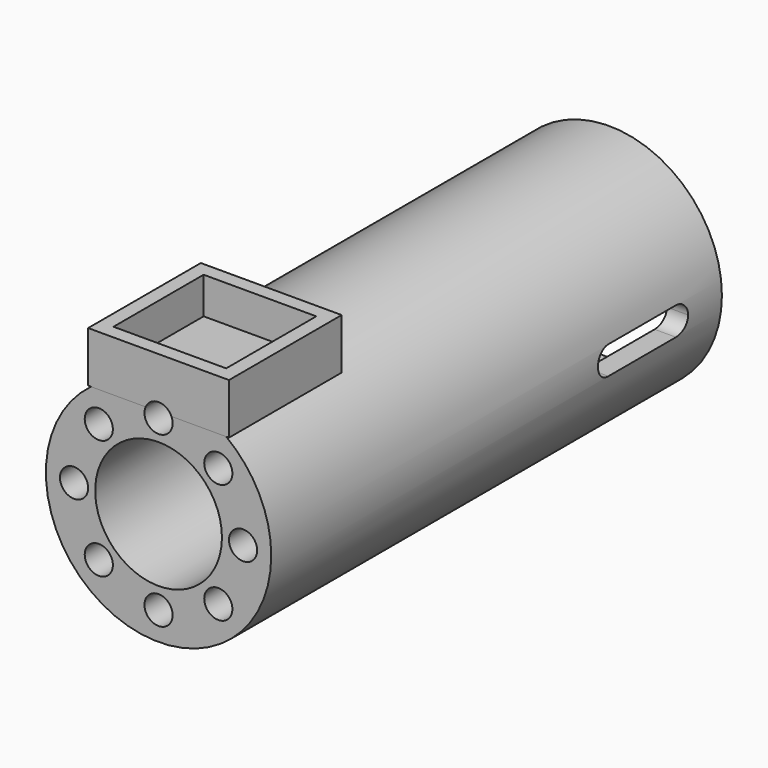
from build123d import *

# Parameters (mm, degrees)
F0_R           = 40
F1_DEPTH       = 200
F2_W           = 50
F2_H           = 50
F3_DEPTH       = 25
F4_DEPTH       = 18
F5_T           = -5
F7_D           = 45
F7_CBORE_D     = 65
F7_CBORE_DEPTH = 80
F9_D           = 10
F9_DEPTH       = 10
F9_TIP         = 3.0043030951
F9_2_D         = 10
F9_2_DEPTH     = 10
F9_2_TIP       = 3.0043030951
F12_DEPTH      = 50


with BuildPart() as f1:
    # F0 (on Front) → F1 (new body)
    with BuildSketch(Plane.XZ):
        with Locations((0, -32)):
            Circle(F0_R)
    extrude(amount=-F1_DEPTH)

    # F2 (on Top) → F3 (cut)
    with BuildSketch(Plane.XY):
        with Locations((0, 25)):
            Rectangle(F2_W, F2_H)
    extrude(amount=F3_DEPTH, mode=Mode.SUBTRACT)

    # F7 (through all)
    with Locations(Plane(origin=(0, 200, 0), x_dir=(-1, 0, 0), z_dir=(0, 1, 0))):
        with Locations((0, -32)):
            CounterBoreHole(F7_D / 2, F7_CBORE_D / 2, F7_CBORE_DEPTH)

    # F9
    with Locations(Plane.XZ):
        with Locations((21.2132034356, -10.7867965644), (30, -32), (21.2132034356, -53.2132034356), (0, -62), (-21.2132034356, -53.2132034356), (-30, -32), (-21.2132034356, -10.7867965644), (0, -2)):
            Hole(F9_D / 2, depth=F9_DEPTH)
            with Locations((0, 0, -(F9_DEPTH + F9_TIP / 2))):  # 118° drill point
                Cone(0, F9_D / 2, F9_TIP, mode=Mode.SUBTRACT)

    # F11 (on Right) → F12 (cut, symmetric)
    with BuildSketch(Plane.YZ):
        with BuildLine():
            Line((180, -27), (150, -27))
            ThreePointArc((150, -27), (146.4644660941, -28.4644660941), (145, -32))
            ThreePointArc((145, -32), (146.4644660941, -35.5355339059), (150, -37))
            Line((150, -37), (180, -37))
            ThreePointArc((180, -37), (183.5355339059, -35.5355339059), (185, -32))
            ThreePointArc((185, -32), (183.5355339059, -28.4644660941), (180, -27))
        make_face()
    extrude(amount=F12_DEPTH, both=True, mode=Mode.SUBTRACT)


with BuildPart() as f4:
    # F2 (on Top) → F4 (new body)
    with BuildSketch(Plane.XY):
        with Locations((0, 25)):
            Rectangle(F2_W, F2_H)
    extrude(amount=F4_DEPTH)

    # F5
    f5_openings = [f4.faces().sort_by_distance(p)[0] for p in [
        (0, 25, 18),
    ]]
    offset(amount=F5_T, openings=f5_openings)

    # F9#2
    with Locations(Plane.XZ):
        with Locations((21.2132034356, -10.7867965644), (30, -32), (21.2132034356, -53.2132034356), (0, -62), (-21.2132034356, -53.2132034356), (-30, -32), (-21.2132034356, -10.7867965644), (0, -2)):
            Hole(F9_2_D / 2, depth=F9_2_DEPTH)
            with Locations((0, 0, -(F9_2_DEPTH + F9_2_TIP / 2))):  # 118° drill point
                Cone(0, F9_2_D / 2, F9_2_TIP, mode=Mode.SUBTRACT)


solid = Compound([f1.part, f4.part])
